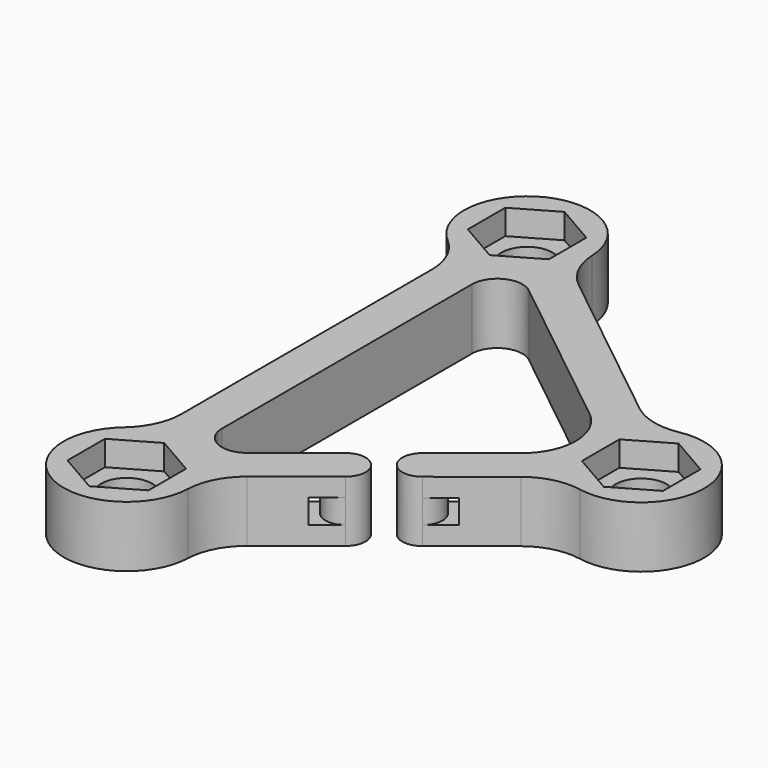
from build123d import *

# Parameters (mm, degrees)
F0_R     = 2.55
F1_DEPTH = 6.1
F3_DEPTH = 2.5
F6_DEPTH = 1.2


with BuildPart() as f1:
    # F0 (on Top) → F1 (new body)
    with BuildSketch(Plane.XY):
        with BuildLine():
            ThreePointArc((-22.8091472875, 20.7166310371), (-24.4512119604, 22.7321355607), (-25.1048969271, 25.2483491523))
            ThreePointArc((-25.1048969271, 25.2483491523), (-34.1357153903, 30.6750208196), (-35.5153225806, 20.2298721131))
            ThreePointArc((-35.5153225806, 20.2298721131), (-33.9539864651, 18.15120321), (-33.4, 15.6111768576))
            Line((-33.4, 15.6111768576), (-33.4, -15.6111768576))
            ThreePointArc((-33.4, -15.6111768576), (-33.9539864651, -18.15120321), (-35.5153225806, -20.2298721131))
            ThreePointArc((-35.5153225806, -20.2298721131), (-34.1357149704, -30.6750210221), (-25.1048968903, -25.2483482207))
            ThreePointArc((-25.1048968903, -25.2483482207), (-24.4512125214, -22.7321357825), (-22.8091487233, -20.7166321802))
            Line((-22.8091487233, -20.7166321802), (-16.801235426, -15.9332617206))
            ThreePointArc((-16.801235426, -15.9332617206), (-16.4823258273, -13.1228708816), (-19.2927166663, -12.8039612829))
            Line((-19.2927166663, -12.8039612829), (-25.3006299635, -17.5873317424))
            ThreePointArc((-25.3006299635, -17.5873317424), (-27.9708920533, -17.8865901621), (-29.4, -15.6111768576))
            Line((-29.4, -15.6111768576), (-29.4, 15.6111768576))
            ThreePointArc((-29.4, 15.6111768576), (-27.9708912267, 17.8865905605), (-25.3006285278, 17.5873305993))
            Line((-25.3006285278, 17.5873305993), (-8.5908527125, 4.2833689629))
            ThreePointArc((-8.5908527125, 4.2833689629), (-6.5260006587, 0), (-8.5908527125, -4.2833689629))
            Line((-8.5908527125, -4.2833689629), (-14.5987660097, -9.0667394225))
            ThreePointArc((-14.5987660097, -9.0667394225), (-14.9176756084, -11.8771302615), (-12.1072847694, -12.1960398602))
            Line((-12.1072847694, -12.1960398602), (-6.0993714722, -7.4126694007))
            ThreePointArc((-6.0993714722, -7.4126694007), (-3.7671833568, -6.2639599209), (-1.1684785693, -6.1906912242))
            ThreePointArc((-1.1684785693, -6.1906912242), (6.3, 0), (-1.1684785693, 6.1906912242))
            ThreePointArc((-1.1684785693, 6.1906912242), (-3.7671833568, 6.2639599209), (-6.0993714722, 7.4126694007))
            Line((-6.0993714722, 7.4126694007), (-22.8091472875, 20.7166310371))
        make_face()
        with Locations((-31.4, -25)):
            Circle(F0_R, mode=Mode.SUBTRACT)
        with Locations((-31.4, 25)):
            Circle(F0_R, mode=Mode.SUBTRACT)
        Circle(F0_R, mode=Mode.SUBTRACT)
    extrude(amount=F1_DEPTH)

    # F2 (on face) → F3 (cut)
    with BuildSketch(Plane.XY.offset(6.1)):
        Polygon((-27.35, 22.6617314098), (-27.35, 27.3382685902), (-31.4, 29.6765371804), (-35.45, 27.3382685902), (-35.45, 22.6617314098), (-31.4, 20.3234628196), align=None)
        Polygon((-27.35, -27.3382685902), (-27.35, -22.6617314098), (-31.4, -20.3234628196), (-35.45, -22.6617314098), (-35.45, -27.3382685902), (-31.4, -29.6765371804), align=None)
        Polygon((-4.05, 2.3382685902), (-4.05, -2.3382685902), (0, -4.6765371804), (4.05, -2.3382685902), (4.05, 2.3382685902), (0, 4.6765371804), align=None)
    extrude(amount=-F3_DEPTH, mode=Mode.SUBTRACT)

    # F5 (on mid) → F6 (cut, symmetric)
    with BuildSketch(Plane.XY.offset(3.05)):
        with BuildLine():
            Line((-19.2927166663, -12.8039612829), (-21.5397744668, -14.5930200413))
            ThreePointArc((-21.5397744668, -14.5930200413), (-20.7851139292, -16.5486575869), (-19.0482932266, -17.722320479))
            Line((-19.0482932266, -17.722320479), (-16.801235426, -15.9332617206))
            ThreePointArc((-16.801235426, -15.9332617206), (-19.611626265, -15.6143521218), (-19.2927166663, -12.8039612829))
        make_face()
        with BuildLine():
            ThreePointArc((-14.5987660097, -9.0667394225), (-11.7883751707, -9.3856490213), (-12.1072847694, -12.1960398602))
            Line((-12.1072847694, -12.1960398602), (-9.8602269689, -10.4069811018))
            ThreePointArc((-9.8602269689, -10.4069811018), (-10.6148875066, -8.4513435562), (-12.3517082091, -7.2776806641))
            Line((-12.3517082091, -7.2776806641), (-14.5987660097, -9.0667394225))
        make_face()
    extrude(amount=F6_DEPTH, both=True, mode=Mode.SUBTRACT)


solid = f1.part
